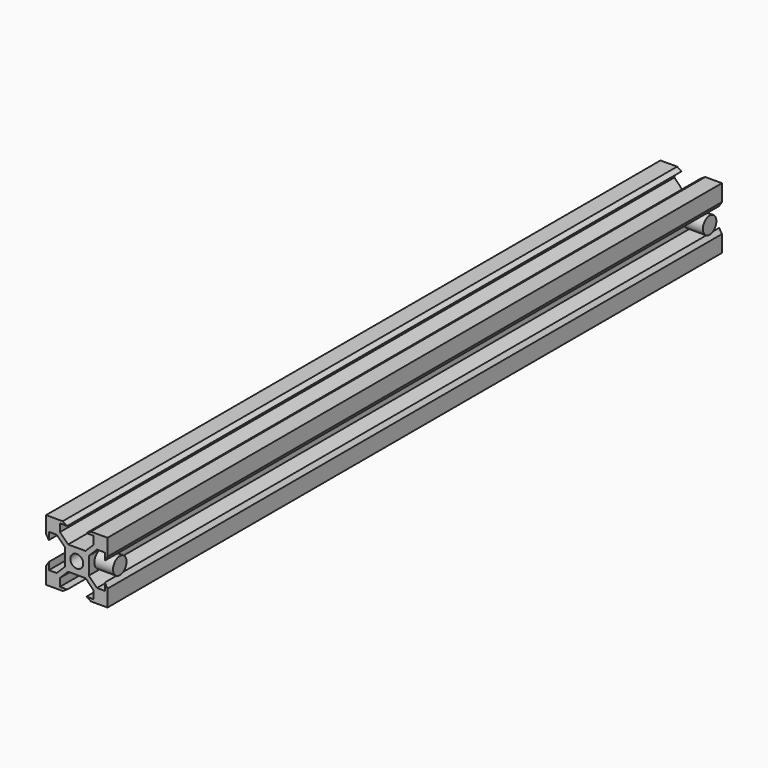
from build123d import *

# Parameters (mm, degrees)
F0_R     = 2.1
F1_DEPTH = 125
F2_R     = 2.75
F3_DEPTH = 6.1


with BuildPart() as f1:
    # F0 (on Front) → F1 (new body, symmetric)
    with BuildSketch(Plane.XZ):
        Polygon((3.9, 2.83934), (3.9, 3.9), (2.83934, 3.9), (-2.83934, 3.9), (-3.9, 3.9), (-3.9, 2.83934), (-3.9, -2.83934), (-3.9, -3.9), (-2.83934, -3.9), (2.83934, -3.9), (3.9, -3.9), (3.9, -2.83934), align=None)
        Circle(F0_R, mode=Mode.SUBTRACT)
        Polygon((2.83934, 3.9), (3.9, 3.9), (3.9, 2.83934), (6.56066, 5.5), (9.1, 5.5), (9.1, 3.125), (10, 4.58), (10, 10), (4.58, 10), (3.125, 9.1), (5.5, 9.1), (5.5, 6.56066), align=None)
        Polygon((-3.9, 3.9), (-2.83934, 3.9), (-5.5, 6.56066), (-5.5, 9.1), (-3.125, 9.1), (-4.58, 10), (-10, 10), (-10, 4.58), (-9.1, 3.125), (-9.1, 5.5), (-6.56066, 5.5), (-3.9, 2.83934), align=None)
        Polygon((6.56066, -5.5), (3.9, -2.83934), (3.9, -3.9), (2.83934, -3.9), (5.5, -6.56066), (5.5, -9.1), (3.125, -9.1), (4.58, -10), (10, -10), (10, -4.58), (9.1, -3.125), (9.1, -5.5), align=None)
        Polygon((-3.9, -3.9), (-3.9, -2.83934), (-6.56066, -5.5), (-9.1, -5.5), (-9.1, -3.125), (-10, -4.58), (-10, -10), (-4.58, -10), (-3.125, -9.1), (-5.5, -9.1), (-5.5, -6.56066), (-2.83934, -3.9), align=None)
    extrude(amount=F1_DEPTH, both=True)

    # F2 (on face) → F3 (join, through all)
    with BuildSketch(Plane.YZ.offset(10)):
        with Locations((-120, 0)):
            Circle(F2_R)
        with Locations((120, 0)):
            Circle(F2_R)
    extrude(amount=-F3_DEPTH)


solid = f1.part
